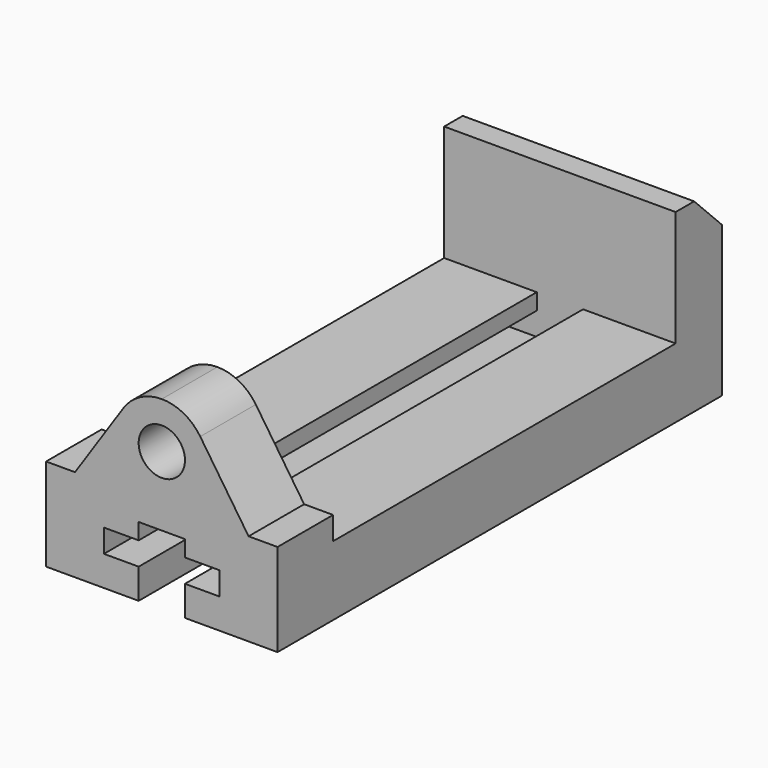
from build123d import *

# Parameters (mm, degrees)
F0_W     = 127
F0_H     = 101.6
F1_DEPTH = 304.8
F3_DEPTH = 273.05
F5_DEPTH = 273.05
F6_W     = 127
F6_H     = 234.95
F7_DEPTH = 63.5
F4_R     = 12.7
F8_DEPTH = 38.1
F9_SIZE2 = 19.05
F9_SIZE  = 19.05


with BuildPart() as f1:
    # F0 (on Front) → F1 (new body)
    with BuildSketch(Plane.XZ):
        with Locations((63.5, 50.8)):
            Rectangle(F0_W, F0_H)
    extrude(amount=F1_DEPTH)

    # F2 (on face) → F3 (cut)
    with BuildSketch(Plane.XZ.offset(304.8)):
        Polygon((50.8, 16.51), (50.8, 0), (76.2, 0), (76.2, 16.51), (95.25, 16.51), (95.25, 29.21), (76.2, 29.21), (76.2, 38.1), (50.8, 38.1), (50.8, 29.21), (31.75, 29.21), (31.75, 16.51), align=None)
    extrude(amount=-F3_DEPTH, mode=Mode.SUBTRACT)

    # F4 (on face) → F5 (cut)
    with BuildSketch(Plane.XZ.offset(304.8)):
        with BuildLine():
            Line((0, 101.6), (0, 50.8))
            Line((0, 50.8), (15.875, 50.8))
            Line((15.875, 50.8), (42.406574, 90.350173))
            ThreePointArc((42.406574, 90.350173), (51.547059, 98.611765), (63.5, 101.6))
            Line((63.5, 101.6), (0, 101.6))
        make_face()
        with BuildLine():
            Line((127, 101.6), (63.5, 101.6))
            ThreePointArc((63.5, 101.6), (75.452941, 98.611765), (84.593426, 90.350173))
            Line((84.593426, 90.350173), (111.125, 50.8))
            Line((111.125, 50.8), (127, 50.8))
            Line((127, 50.8), (127, 101.6))
        make_face()
    extrude(amount=-F5_DEPTH, mode=Mode.SUBTRACT)

    # F6 (on face) → F7 (cut)
    with BuildSketch(Plane.XY.offset(101.6)):
        with Locations((63.5, -149.225)):
            Rectangle(F6_W, F6_H)
    extrude(amount=-F7_DEPTH, mode=Mode.SUBTRACT)

    # F4 (on face) → F8 (cut)
    with BuildSketch(Plane.XZ.offset(304.8)):
        with Locations((63.5, 76.2)):
            Circle(F4_R)
    extrude(amount=-F8_DEPTH, mode=Mode.SUBTRACT)

    # F9
    f9_edges = [f1.edges().sort_by_distance(p)[0] for p in [
        (63.5, 0, 101.6),
    ]]
    chamfer(f9_edges, length=F9_SIZE, length2=F9_SIZE2)


solid = f1.part
